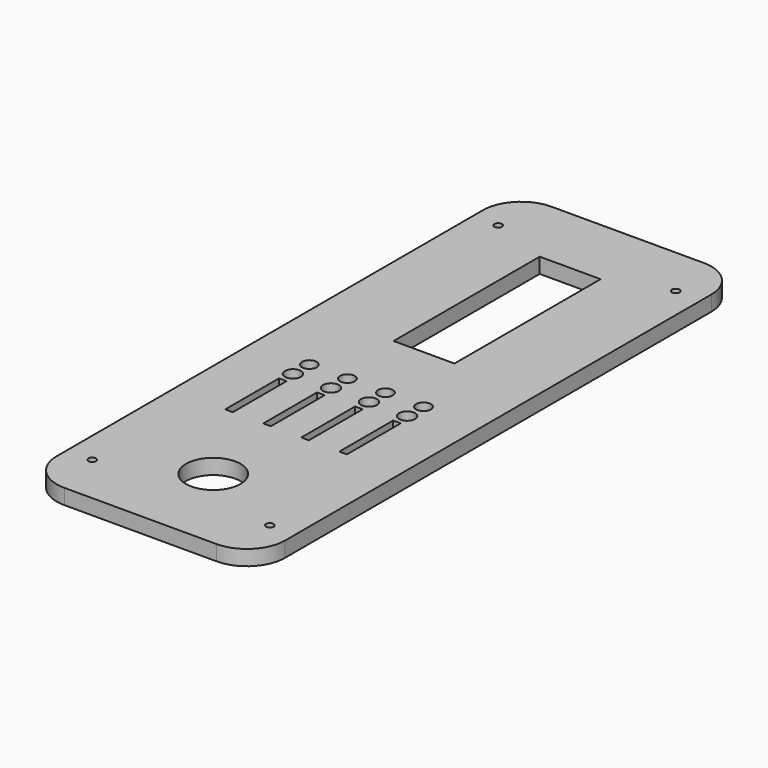
from build123d import *

# Parameters (mm, degrees)
F1_DEPTH = 6
F2_W     = 24
F2_H     = 72
F3_DEPTH = 6
F4_W     = 3
F4_H     = 26.5
F4_R     = 2.9
F4_R_2   = 3.15
F5_DEPTH = 6
F6_R     = 10.75
F7_DEPTH = 6
F8_R     = 1.5
F9_DEPTH = 6


with BuildPart() as f1:
    # F0 (on Top) → F1 (new body)
    with BuildSketch(Plane.XY):
        with BuildLine():
            Line((-30, -120), (30, -120))
            ThreePointArc((30, -120), (40.606602, -115.606602), (45, -105))
            Line((45, -105), (45, 105))
            ThreePointArc((45, 105), (40.606602, 115.606602), (30, 120))
            Line((30, 120), (-30, 120))
            ThreePointArc((-30, 120), (-40.606602, 115.606602), (-45, 105))
            Line((-45, 105), (-45, -105))
            ThreePointArc((-45, -105), (-40.606602, -115.606602), (-30, -120))
        make_face()
    extrude(amount=F1_DEPTH)

    # F2 (on face) → F3 (cut, through all)
    with BuildSketch(Plane.XY.offset(6)):
        with Locations((0, 55.712325)):
            Rectangle(F2_W, F2_H)
    extrude(amount=-F3_DEPTH, mode=Mode.SUBTRACT)

    # F4 (on face) → F5 (cut, through all)
    with BuildSketch(Plane.XY.offset(6)):
        with Locations((-22.5, -35)):
            Rectangle(F4_W, F4_H)
        with Locations((-22.433495, -8.750276)):
            Circle(F4_R)
        with Locations((-22.5, -16.75)):
            Circle(F4_R_2)
        with Locations((-7.5, -16.75)):
            Circle(F4_R_2)
        with Locations((-7.5, -35)):
            Rectangle(F4_W, F4_H)
        with Locations((-7.433495, -8.750276)):
            Circle(F4_R)
        with Locations((7.5, -16.75)):
            Circle(F4_R_2)
        with Locations((7.5, -35)):
            Rectangle(F4_W, F4_H)
        with Locations((7.566505, -8.750276)):
            Circle(F4_R)
        with Locations((22.5, -16.75)):
            Circle(F4_R_2)
        with Locations((22.5, -35)):
            Rectangle(F4_W, F4_H)
        with Locations((22.566505, -8.750276)):
            Circle(F4_R)
    extrude(amount=-F5_DEPTH, mode=Mode.SUBTRACT)

    # F6 (on face) → F7 (cut, through all)
    with BuildSketch(Plane.XY.offset(6)):
        with Locations((0, -84.125)):
            Circle(F6_R)
    extrude(amount=-F7_DEPTH, mode=Mode.SUBTRACT)

    # F8 (on face) → F9 (cut, through all)
    with BuildSketch(Plane.XY.offset(6)):
        with Locations((-35, -100)):
            Circle(F8_R)
        with Locations((35, -100)):
            Circle(F8_R)
        with Locations((35, 100)):
            Circle(F8_R)
        with Locations((-35, 100)):
            Circle(F8_R)
    extrude(amount=-F9_DEPTH, mode=Mode.SUBTRACT)


solid = f1.part
